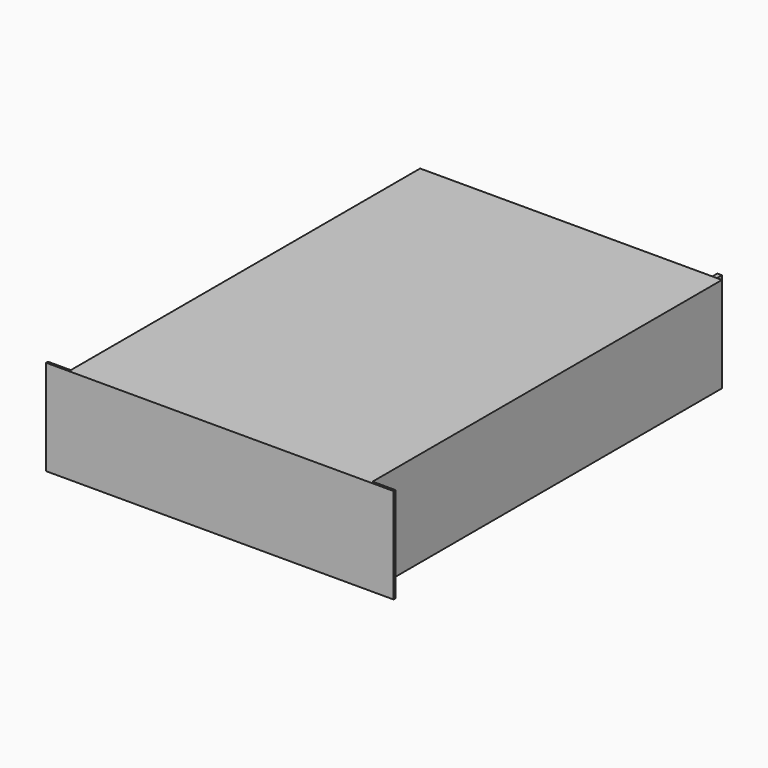
from build123d import *

# Parameters (mm, degrees)
F0_W     = 419.1
F0_H     = 132.5626
F1_DEPTH = 609.6
F0_W_2   = 31.75
F2_DEPTH = 3.175
F3_W     = 6.35
F3_H     = 38.354
F4_DEPTH = 31.75
F5_R     = 4.7625
F6_DEPTH = 425.451


with BuildPart() as f1:
    # F0 (on Front) → F1 (new body)
    with BuildSketch(Plane.XZ):
        Rectangle(F0_W, F0_H)
    extrude(amount=-F1_DEPTH)

    # F0 (on Front) → F2 (join)
    with BuildSketch(Plane.XZ):
        with Locations((225.425, 0)):
            Rectangle(F0_W_2, F0_H)
        Rectangle(F0_W, F0_H)
        with Locations((-225.425, 0)):
            Rectangle(F0_W_2, F0_H)
    extrude(amount=-F2_DEPTH)

    # F3 (on face) → F4 (join)
    with BuildSketch(Plane(origin=(0, 609.6, 0), x_dir=(-1, 0, 0), z_dir=(0, 1, 0))):
        with Locations((-180.975, 31.7373)):
            Rectangle(F3_W, F3_H)
        with Locations((-180.975, -19.0627)):
            Rectangle(F3_W, F3_H)
    extrude(amount=F4_DEPTH)

    # F5 (on face) → F6 (cut, through all)
    with BuildSketch(Plane.YZ.offset(184.15)):
        with Locations((628.65, 31.7373)):
            Circle(F5_R)
        with Locations((628.65, -19.0627)):
            Circle(F5_R)
    extrude(amount=-F6_DEPTH, mode=Mode.SUBTRACT)


solid = f1.part
